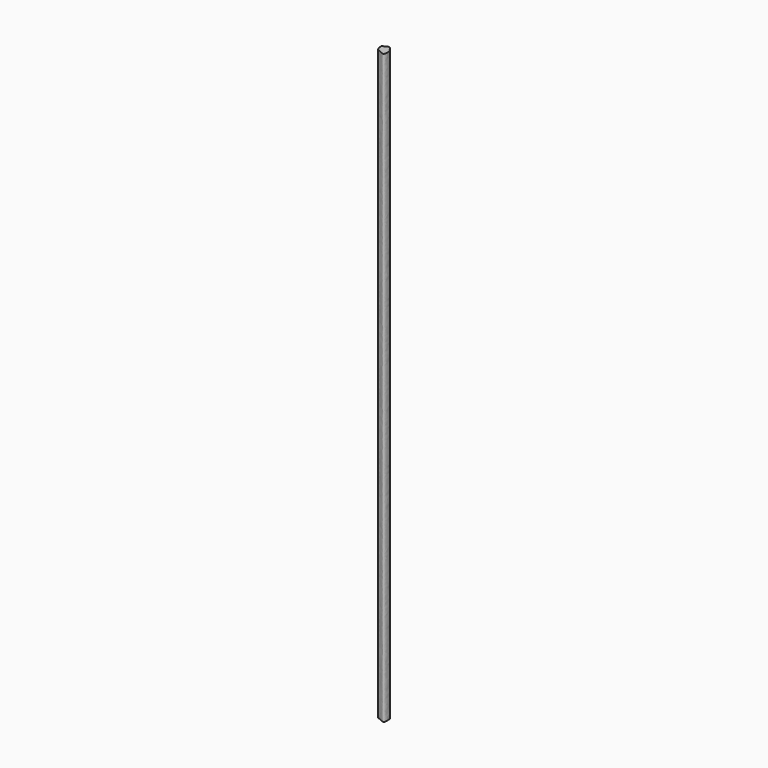
from build123d import *

# Parameters (mm, degrees)
F1_DEPTH = 105
F3_DEPTH = 9001


with BuildPart() as f1:
    # F0 (on Top) → F1 (new body)
    with BuildSketch(Plane.XY):
        Polygon((-12.2279357165, -7.927166298), (-105.9852614999, -7.927166298), (-84.7169283104, -45.0846095282), (-18.8579354435, -54.4668249786), align=None)
    extrude(amount=F1_DEPTH)

    # F2 (on Top) → F3 (join)
    with BuildSketch(Plane.XY):
        with BuildLine():
            add(Edge.make_bspline(
                [(-130.2344202995, 42.6658578217), (-134.1251364927, 20.6046592162), (-108.4614870832, -72.4582053353), (-84.4386446622, -41.4008469967), (48.1366020898, -155.8348358214), (24.2116478328, 31.5135179695), (6.7891744602, 19.7200495981), (-24.9738553619, 118.3967160277), (-106.5863851271, 53.8984454735), (-128.1863686623, 54.2787516127), (-130.2344202995, 42.6658578217)],
                knots=[0, 0, 0, 0, 0.1641389963, 0.2368881808, 0.4044456287, 0.5786610048, 0.6296943978, 0.7682631503, 0.9135981338, 1, 1, 1, 1], degree=3))
        make_face()
    extrude(amount=F3_DEPTH)


solid = f1.part
